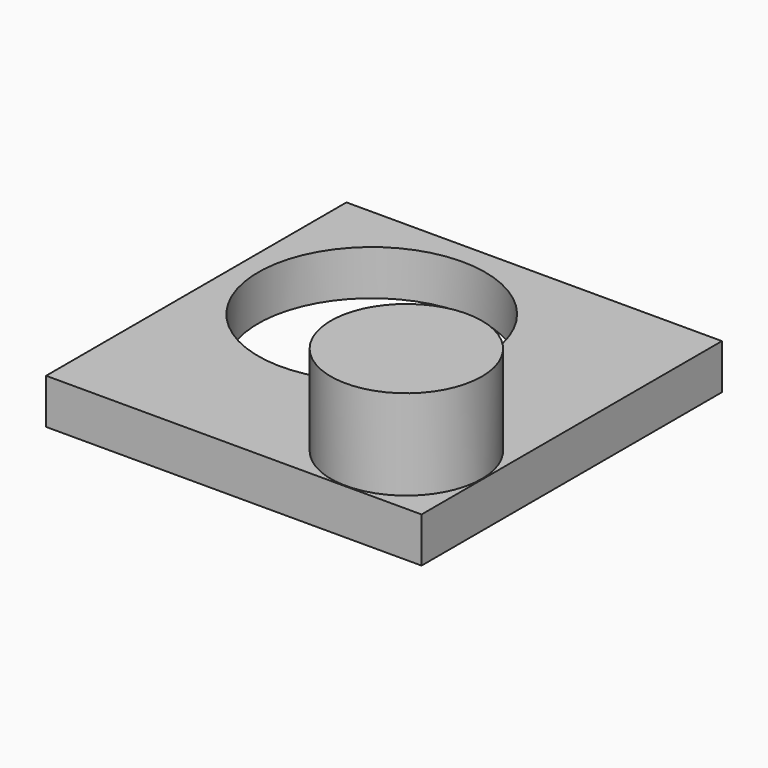
from build123d import *

# Parameters (mm, degrees)
SKETCH_W     = 25
SKETCH_H     = 25
SKETCH_R     = 7.56
PAD_DEPTH    = 3
SKETCH001_R  = 5.03
PAD001_DEPTH = 9


with BuildPart() as part:
    # Sketch → Pad (new body)
    with BuildSketch(Plane.XY):
        Rectangle(SKETCH_W, SKETCH_H)
        with Locations((-3.608525, 3.489298)):
            Circle(SKETCH_R, mode=Mode.SUBTRACT)
    extrude(amount=PAD_DEPTH)

    # Sketch001 → Pad001 (join)
    with BuildSketch(Plane.XY):
        with Locations((7.418324, -7.412742)):
            Circle(SKETCH001_R)
    extrude(amount=PAD001_DEPTH)


solid = part.part
